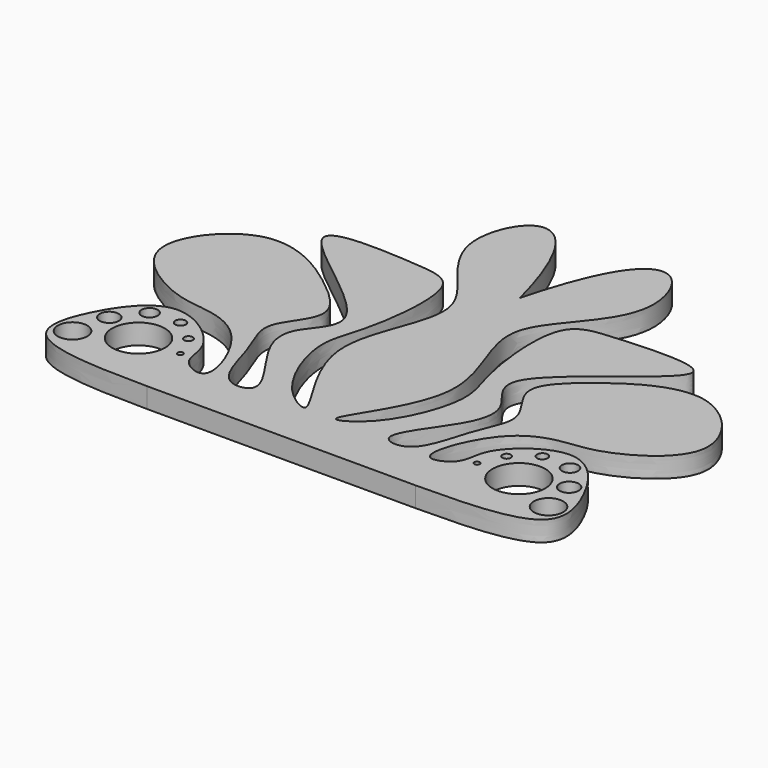
from build123d import *

# Parameters (mm, degrees)
F0_R     = 3.6548903536
F0_R_2   = 2.3715445218
F0_R_3   = 6.5485894214
F0_R_4   = 1.062665087
F0_R_5   = 1.9984200401
F0_R_6   = 1.3130779466
F0_R_7   = 0.6720868086
F1_DEPTH = 5
F2_ANGLE = 90


with BuildPart() as f1:
    # F0 (on Front) → F1 (new body)
    with BuildSketch(Plane.XZ):
        with BuildLine():
            Line((-33.308506012, 0), (0, 0))
            Line((0, 0), (0, 74.0570500493))
            add(Edge.make_bspline(
                [(-33.308506012, 0), (-44.8488150501, 0.1058556667), (-66.7493462965, 0.3067876594), (-62.1440728845, 17.9713628388), (-50.3228509175, 33.9662713887), (-33.3427839942, 20.789670533), (-35.3236788136, 12.7511207804), (-24.2925535972, 7.8836753756), (-32.1840669334, 29.0288722674), (-44.3887957552, 32.6532286354), (-53.2829778366, 32.6273180468), (-74.6057388285, 45.5346212253), (-54.9910657339, 69.7812686317), (-33.3322055382, 56.0096127726), (-22.1941410707, 44.9258608827), (-33.2831841793, 34.8241610663), (-27.258037631, 25.4267857352), (-24.6605125714, 9.9750125121), (-12.6714662552, 11.545487116), (-25.8148115402, 26.2645315654), (-27.4725731229, 36.8277063074), (-12.659754762, 47.3842323751), (-61.5412556283, 74.7957658953), (-24.4123710708, 72.6852845742), (-11.5619639046, 71.4925063375), (-14.7359919166, 44.1933747468), (-19.6721342442, 35.031132546), (-12.8553107875, 16.0875045605), (1.9322053588, 8.0066335667), (-22.5419496307, 36.3237024042), (1.8358387945, 64.3927005882), (-33.7091024498, 83.8832262487), (-10.1618660626, 113.6167842503), (0, 74.0570500493)],
                knots=[0, 0, 0, 0, 0.0439591756, 0.0728514499, 0.106062364, 0.1386557268, 0.1608610183, 0.1800605836, 0.2125875692, 0.241333848, 0.2661832551, 0.3015879767, 0.3384595972, 0.377425783, 0.4066999586, 0.4333611642, 0.459563273, 0.4903587934, 0.5090967925, 0.5411803188, 0.5673601055, 0.5940815627, 0.6414937108, 0.677695917, 0.705901398, 0.7448171414, 0.7723312921, 0.8083313849, 0.8305991969, 0.870675989, 0.9143689055, 0.9582713554, 1, 1, 1, 1], degree=3))
        make_face()
        with Locations((-59.1201856732, 9.095323272)):
            Circle(F0_R, mode=Mode.SUBTRACT)
        with Locations((-57.1162551641, 18.0016700178)):
            Circle(F0_R_2, mode=Mode.SUBTRACT)
        with Locations((-47.2450554371, 14.7360097617)):
            Circle(F0_R_3, mode=Mode.SUBTRACT)
        with Locations((-39.5262204111, 20.5993559211)):
            Circle(F0_R_4, mode=Mode.SUBTRACT)
        with Locations((-52.2177629173, 24.3845526129)):
            Circle(F0_R_5, mode=Mode.SUBTRACT)
        with Locations((-44.9442453682, 24.9040909111)):
            Circle(F0_R_6, mode=Mode.SUBTRACT)
        with Locations((-36.8543155491, 14.7360097617)):
            Circle(F0_R_7, mode=Mode.SUBTRACT)
        with BuildLine():
            Line((0, 74.0570500493), (0, 0))
            Line((0, 0), (33.308506012, 0))
            add(Edge.make_bspline(
                [(33.308506012, 0), (44.8488150501, 0.1058556667), (66.7493462965, 0.3067876594), (62.1440728845, 17.9713628388), (50.3228509175, 33.9662713887), (33.3427839942, 20.789670533), (35.3236788136, 12.7511207804), (24.2925535972, 7.8836753756), (32.1840669334, 29.0288722674), (44.3887957552, 32.6532286354), (53.2829778366, 32.6273180468), (74.6057388285, 45.5346212253), (54.9910657339, 69.7812686317), (33.3322055382, 56.0096127726), (22.1941410707, 44.9258608827), (33.2831841793, 34.8241610663), (27.258037631, 25.4267857352), (24.6605125714, 9.9750125121), (12.6714662552, 11.545487116), (25.8148115402, 26.2645315654), (27.4725731229, 36.8277063074), (12.659754762, 47.3842323751), (61.5412556283, 74.7957658953), (24.4123710708, 72.6852845742), (11.5619639046, 71.4925063375), (14.7359919166, 44.1933747468), (19.6721342442, 35.031132546), (12.8553107875, 16.0875045605), (-1.9322053588, 8.0066335667), (22.5419496307, 36.3237024042), (-1.8358387945, 64.3927005882), (33.7091024498, 83.8832262487), (10.1618660626, 113.6167842503), (0, 74.0570500493)],
                knots=[0, 0, 0, 0, 0.0439591756, 0.0728514499, 0.106062364, 0.1386557268, 0.1608610183, 0.1800605836, 0.2125875692, 0.241333848, 0.2661832551, 0.3015879767, 0.3384595972, 0.377425783, 0.4066999586, 0.4333611642, 0.459563273, 0.4903587934, 0.5090967925, 0.5411803188, 0.5673601055, 0.5940815627, 0.6414937108, 0.677695917, 0.705901398, 0.7448171414, 0.7723312921, 0.8083313849, 0.8305991969, 0.870675989, 0.9143689055, 0.9582713554, 1, 1, 1, 1], degree=3))
        make_face()
        with Locations((36.8543155491, 14.7360097617)):
            Circle(F0_R_7, mode=Mode.SUBTRACT)
        with Locations((59.1201856732, 9.095323272)):
            Circle(F0_R, mode=Mode.SUBTRACT)
        with Locations((39.5262204111, 20.5993559211)):
            Circle(F0_R_4, mode=Mode.SUBTRACT)
        with Locations((47.2450554371, 14.7360097617)):
            Circle(F0_R_3, mode=Mode.SUBTRACT)
        with Locations((44.9442453682, 24.9040909111)):
            Circle(F0_R_6, mode=Mode.SUBTRACT)
        with Locations((52.2177629173, 24.3845526129)):
            Circle(F0_R_5, mode=Mode.SUBTRACT)
        with Locations((57.1162551641, 18.0016700178)):
            Circle(F0_R_2, mode=Mode.SUBTRACT)
    extrude(amount=F1_DEPTH)


with BuildPart() as f1_1:
    # F2: moved
    add(f1.part.rotate(Axis((0, 0, 0), (-1, 0, 0)), F2_ANGLE))


solid = f1_1.part
